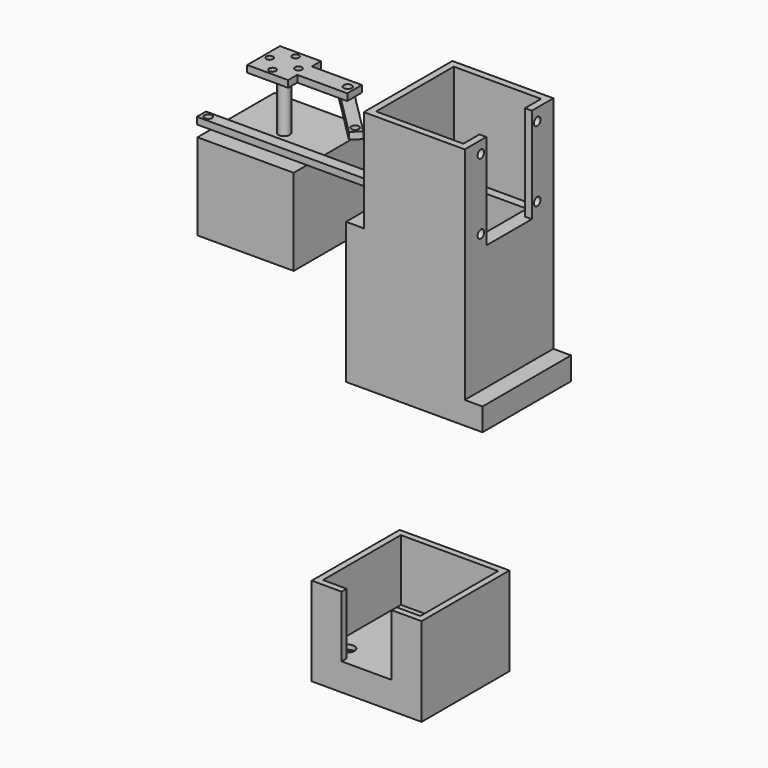
from build123d import *

# Parameters (mm, degrees)
CYLINDER011_R             = 1.8
CYLINDER011_DEPTH         = 10
BOX013_W                  = 8
BOX013_H                  = 22
BOX013_DEPTH              = 3
CYLINDER010_R             = 1.5
CYLINDER010_DEPTH         = 10
CYLINDER009_R             = 1.5
CYLINDER009_DEPTH         = 10
CYLINDER012_R             = 1.5
CYLINDER012_DEPTH         = 10
CYLINDER013_R             = 1.5
CYLINDER013_DEPTH         = 10
BOX012_W                  = 18
BOX012_H                  = 18
BOX012_DEPTH              = 3
FUSION005_PITCH_ANGLE     = 90
FUSION005_PLACEMENT_ANGLE = -90
CYLINDER015_R             = 1.7
CYLINDER015_DEPTH         = 10
CYLINDER014_R             = 1.7
CYLINDER014_DEPTH         = 10
BOX014_W                  = 30
BOX014_H                  = 5
BOX014_DEPTH              = 3
CUT015_ROLL_ANGLE         = 90
CUT015_PITCH_ANGLE        = 45
CUT015_PLACEMENT_ANGLE    = 1.4e-05
CYLINDER008_R             = 2.5
CYLINDER008_DEPTH         = 24
BOX011_W                  = 42.3
BOX011_H                  = 42.3
BOX011_DEPTH              = 38
FUSION004_PLACEMENT_ANGLE = 90
FUSION006_ROLL_ANGLE      = -90
FUSION006_PLACEMENT_ANGLE = 180
CYLINDER016_R             = 1.7
CYLINDER016_DEPTH         = 10
CYLINDER017_R             = 1.7
CYLINDER017_DEPTH         = 10
BOX020_W                  = 90
BOX020_H                  = 5
BOX020_DEPTH              = 3
CUT022_PLACEMENT_ANGLE    = 1.4e-05
CYLINDER025_R             = 3
CYLINDER025_DEPTH         = 10
CYLINDER024_R             = 3
CYLINDER024_DEPTH         = 10
CYLINDER023_R             = 3
CYLINDER023_DEPTH         = 10
CYLINDER022_R             = 3
CYLINDER022_DEPTH         = 10
CYLINDER021_R             = 1.8
CYLINDER021_DEPTH         = 20
CYLINDER020_R             = 1.8
CYLINDER020_DEPTH         = 20
CYLINDER019_R             = 1.8
CYLINDER019_DEPTH         = 20
CYLINDER018_R             = 1.8
CYLINDER018_DEPTH         = 20
BOX019_W                  = 22
BOX019_H                  = 27
BOX019_DEPTH              = 10
BOX016_W                  = 42.8
BOX016_H                  = 27
BOX016_DEPTH              = 42.8
BOX015_W                  = 48.3
BOX015_H                  = 39
BOX015_DEPTH              = 48.3
CUT018_PLACEMENT_ANGLE    = 90
CYLINDER026_R             = 1.4
CYLINDER026_DEPTH         = 10
BOX004_W                  = 32
BOX004_H                  = 35
BOX004_DEPTH              = 10
CYLINDER003_R             = 1.8
CYLINDER003_DEPTH         = 10
CYLINDER002_R             = 1.8
CYLINDER002_DEPTH         = 10
CYLINDER001_R             = 1.8
CYLINDER001_DEPTH         = 10
CYLINDER_R                = 1.8
CYLINDER_DEPTH            = 10
BOX002_W                  = 3
BOX002_H                  = 25
BOX002_DEPTH              = 42
BOX_W                     = 38.4
BOX_H                     = 42.7
BOX_DEPTH                 = 42
BOX001_W                  = 44.4
BOX001_H                  = 48.7
BOX001_DEPTH              = 45
BOX006_W                  = 36
BOX006_H                  = 35
BOX006_DEPTH              = 52
BOX005_W                  = 44.4
BOX005_H                  = 48.7
BOX005_DEPTH              = 52
CYLINDER007_R             = 2
CYLINDER007_DEPTH         = 15
CYLINDER006_R             = 2
CYLINDER006_DEPTH         = 15
CYLINDER005_R             = 2
CYLINDER005_DEPTH         = 15
CYLINDER004_R             = 2
CYLINDER004_DEPTH         = 15
BOX003_W                  = 60
BOX003_H                  = 48.7
BOX003_DEPTH              = 10
BOX007_W                  = 7.8
BOX007_H                  = 48.8
BOX007_DEPTH              = 52


with BuildPart() as cylinder011:
    # Cylinder011 → Cylinder011 (new body)
    with BuildSketch(Plane(origin=(5, 2, 0), x_dir=(1, 0, 0), z_dir=(0, 0, 1))):
        Circle(CYLINDER011_R)
    extrude(amount=CYLINDER011_DEPTH)


with BuildPart() as cut013:
    # Box013 → Box013 (new body)
    with BuildSketch(Plane(origin=(1, -1, 0), x_dir=(1, 0, 0), z_dir=(0, 0, 1))):
        with Locations((4, 11)):
            Rectangle(BOX013_W, BOX013_H)
    extrude(amount=BOX013_DEPTH)

    # Cut013: cut Cylinder011
    add(cylinder011.part, mode=Mode.SUBTRACT)


with BuildPart() as cylinder010:
    # Cylinder010 → Cylinder010 (new body)
    with BuildSketch(Plane(origin=(5, 23.65, 0), x_dir=(1, 0, 0), z_dir=(0, 0, 1))):
        Circle(CYLINDER010_R)
    extrude(amount=CYLINDER010_DEPTH)


with BuildPart() as cylinder009:
    # Cylinder009 → Cylinder009 (new body)
    with BuildSketch(Plane(origin=(-1.35, 30, 0), x_dir=(1, 0, 0), z_dir=(0, 0, 1))):
        Circle(CYLINDER009_R)
    extrude(amount=CYLINDER009_DEPTH)


with BuildPart() as cylinder012:
    # Cylinder012 → Cylinder012 (new body)
    with BuildSketch(Plane(origin=(11.35, 30, 0), x_dir=(1, 0, 0), z_dir=(0, 0, 1))):
        Circle(CYLINDER012_R)
    extrude(amount=CYLINDER012_DEPTH)


with BuildPart() as cylinder013:
    # Cylinder013 → Cylinder013 (new body)
    with BuildSketch(Plane(origin=(5, 36.35, 0), x_dir=(1, 0, 0), z_dir=(0, 0, 1))):
        Circle(CYLINDER013_R)
    extrude(amount=CYLINDER013_DEPTH)


with BuildPart() as obj1:
    # Box012 → Box012 (new body)
    with BuildSketch(Plane(origin=(-4, 21, 0), x_dir=(1, 0, 0), z_dir=(0, 0, 1))):
        with Locations((9, 9)):
            Rectangle(BOX012_W, BOX012_H)
    extrude(amount=BOX012_DEPTH)

    # Cut020: cut Cylinder013
    add(cylinder013.part, mode=Mode.SUBTRACT)

    # Cut012: cut Cylinder012
    add(cylinder012.part, mode=Mode.SUBTRACT)

    # Cut019: cut Cylinder009
    add(cylinder009.part, mode=Mode.SUBTRACT)

    # Cut014: cut Cylinder010
    add(cylinder010.part, mode=Mode.SUBTRACT)

    # Fusion005: union Cut013
    add(cut013.part)


with BuildPart() as obj1_1:
    # Fusion005 pitch: moved
    add(obj1.part.rotate(Axis((0, 0, 0), (0, 1, 0)), FUSION005_PITCH_ANGLE))


with BuildPart() as obj1_2:
    # Fusion005 placement: moved
    add(obj1_1.part.moved(Location((60.15, 35, -21.85))).rotate(Axis((60.15, 35, -21.85), (0, 0, 1)), FUSION005_PLACEMENT_ANGLE))


with BuildPart() as cylinder015:
    # Cylinder015 → Cylinder015 (new body)
    with BuildSketch(Plane(origin=(27, 2.5, 0), x_dir=(1, 0, 0), z_dir=(0, 0, 1))):
        Circle(CYLINDER015_R)
    extrude(amount=CYLINDER015_DEPTH)


with BuildPart() as cylinder014:
    # Cylinder014 → Cylinder014 (new body)
    with BuildSketch(Plane(origin=(3, 2.5, 0), x_dir=(1, 0, 0), z_dir=(0, 0, 1))):
        Circle(CYLINDER014_R)
    extrude(amount=CYLINDER014_DEPTH)


with BuildPart() as obj2:
    # Box014 → Box014 (new body)
    with BuildSketch(Plane.XY):
        with Locations((15, 2.5)):
            Rectangle(BOX014_W, BOX014_H)
    extrude(amount=BOX014_DEPTH)

    # Cut016: cut Cylinder014
    add(cylinder014.part, mode=Mode.SUBTRACT)

    # Cut015: cut Cylinder015
    add(cylinder015.part, mode=Mode.SUBTRACT)


with BuildPart() as obj2_1:
    # Cut015 roll: moved
    add(obj2.part.rotate(Axis((0, 0, 0), (1, 0, 0)), CUT015_ROLL_ANGLE))


with BuildPart() as obj2_2:
    # Cut015 pitch: moved
    add(obj2_1.part.rotate(Axis((0, 0, 0), (0, 1, 0)), CUT015_PITCH_ANGLE))


with BuildPart() as obj2_3:
    # Cut015 placement: moved
    add(obj2_2.part.moved(Location((41.4, 38.5, -9.5))).rotate(Axis((41.4, 38.5, -9.5), (0, 0, 1)), CUT015_PLACEMENT_ANGLE))


with BuildPart() as rotor001:
    # Cylinder008 → Cylinder008 (new body)
    with BuildSketch(Plane(origin=(21.15, 21.15, 38), x_dir=(1, 0, 0), z_dir=(0, 0, 1))):
        Circle(CYLINDER008_R)
    extrude(amount=CYLINDER008_DEPTH)


with BuildPart() as obj3:
    # Box011 → Box011 (new body)
    with BuildSketch(Plane.XY):
        with Locations((21.15, 21.15)):
            Rectangle(BOX011_W, BOX011_H)
    extrude(amount=BOX011_DEPTH)

    # Fusion004: union Rotor001
    add(rotor001.part)


with BuildPart() as obj3_1:
    # Fusion004 placement: moved
    add(obj3.part.moved(Location((69, 97, -48))).rotate(Axis((69, 97, -48), (1, 0, 0)), FUSION004_PLACEMENT_ANGLE))

    # Fusion006: union obj1, obj2
    add(obj1_2.part)
    add(obj2_3.part)


with BuildPart() as obj3_2:
    # Fusion006 roll: moved
    add(obj3_1.part.rotate(Axis((0, 0, 0), (1, 0, 0)), FUSION006_ROLL_ANGLE))


with BuildPart() as obj3_3:
    # Fusion006 placement: moved
    add(obj3_2.part.moved(Location((0, 43, 66))).rotate(Axis((0, 43, 66), (0, 0, 1)), FUSION006_PLACEMENT_ANGLE))


with BuildPart() as cylinder016:
    # Cylinder016 → Cylinder016 (new body)
    with BuildSketch(Plane(origin=(87, 2.5, 0), x_dir=(1, 0, 0), z_dir=(0, 0, 1))):
        Circle(CYLINDER016_R)
    extrude(amount=CYLINDER016_DEPTH)


with BuildPart() as cylinder017:
    # Cylinder017 → Cylinder017 (new body)
    with BuildSketch(Plane(origin=(3, 2.5, 0), x_dir=(1, 0, 0), z_dir=(0, 0, 1))):
        Circle(CYLINDER017_R)
    extrude(amount=CYLINDER017_DEPTH)


with BuildPart() as obj4:
    # Box020 → Box020 (new body)
    with BuildSketch(Plane.XY):
        with Locations((45, 2.5)):
            Rectangle(BOX020_W, BOX020_H)
    extrude(amount=BOX020_DEPTH)

    # Cut021: cut Cylinder017
    add(cylinder017.part, mode=Mode.SUBTRACT)

    # Cut022: cut Cylinder016
    add(cylinder016.part, mode=Mode.SUBTRACT)


with BuildPart() as obj4_1:
    # Cut022 placement: moved
    add(obj4.part.moved(Location((-88.6, 20, 31))).rotate(Axis((-88.6, 20, 31), (0, 0, 1)), CUT022_PLACEMENT_ANGLE))


with BuildPart() as cylinder025:
    # Cylinder025 → Cylinder025 (new body)
    with BuildSketch(Plane(origin=(43.45, -62.25, -97.5), x_dir=(1, 0, 0), z_dir=(0, 0, 1))):
        Circle(CYLINDER025_R)
    extrude(amount=CYLINDER025_DEPTH)


with BuildPart() as cylinder024:
    # Cylinder024 → Cylinder024 (new body)
    with BuildSketch(Plane(origin=(74.25, -62.25, -97.5), x_dir=(1, 0, 0), z_dir=(0, 0, 1))):
        Circle(CYLINDER024_R)
    extrude(amount=CYLINDER024_DEPTH)


with BuildPart() as cylinder023:
    # Cylinder023 → Cylinder023 (new body)
    with BuildSketch(Plane(origin=(74.25, -31.45, -97.5), x_dir=(1, 0, 0), z_dir=(0, 0, 1))):
        Circle(CYLINDER023_R)
    extrude(amount=CYLINDER023_DEPTH)


with BuildPart() as cylinder022:
    # Cylinder022 → Cylinder022 (new body)
    with BuildSketch(Plane(origin=(43.45, -31.45, -97.5), x_dir=(1, 0, 0), z_dir=(0, 0, 1))):
        Circle(CYLINDER022_R)
    extrude(amount=CYLINDER022_DEPTH)


with BuildPart() as cylinder021:
    # Cylinder021 → Cylinder021 (new body)
    with BuildSketch(Plane(origin=(43.45, -31.45, -110), x_dir=(1, 0, 0), z_dir=(0, 0, 1))):
        Circle(CYLINDER021_R)
    extrude(amount=CYLINDER021_DEPTH)


with BuildPart() as cylinder020:
    # Cylinder020 → Cylinder020 (new body)
    with BuildSketch(Plane(origin=(43.45, -62.25, -110), x_dir=(1, 0, 0), z_dir=(0, 0, 1))):
        Circle(CYLINDER020_R)
    extrude(amount=CYLINDER020_DEPTH)


with BuildPart() as cylinder019:
    # Cylinder019 → Cylinder019 (new body)
    with BuildSketch(Plane(origin=(74.25, -31.45, -110), x_dir=(1, 0, 0), z_dir=(0, 0, 1))):
        Circle(CYLINDER019_R)
    extrude(amount=CYLINDER019_DEPTH)


with BuildPart() as cylinder018:
    # Cylinder018 → Cylinder018 (new body)
    with BuildSketch(Plane(origin=(74.25, -62.25, -110), x_dir=(1, 0, 0), z_dir=(0, 0, 1))):
        Circle(CYLINDER018_R)
    extrude(amount=CYLINDER018_DEPTH)


with BuildPart() as cube004:
    # Box019 → Box019 (new body)
    with BuildSketch(Plane(origin=(47.85, 68.5, -75), x_dir=(1, 0, 0), z_dir=(0, 0, 1))):
        with Locations((11, 13.5)):
            Rectangle(BOX019_W, BOX019_H)
    extrude(amount=BOX019_DEPTH)


with BuildPart() as statictraynegative:
    # Box016 → Box016 (new body)
    with BuildSketch(Plane(origin=(93.75, 0, 2.75), x_dir=(1, 0, 0), z_dir=(0, 0, 1))):
        with Locations((21.4, 13.5)):
            Rectangle(BOX016_W, BOX016_H)
    extrude(amount=BOX016_DEPTH)


with BuildPart() as cut030:
    # Box015 → Box015 (new body)
    with BuildSketch(Plane(origin=(91, 0, 0), x_dir=(1, 0, 0), z_dir=(0, 0, 1))):
        with Locations((24.15, 19.5)):
            Rectangle(BOX015_W, BOX015_H)
    extrude(amount=BOX015_DEPTH)

    # Cut017: cut StaticTrayNegative
    add(statictraynegative.part, mode=Mode.SUBTRACT)


with BuildPart() as cut030_1:
    # Cut017 placement: moved
    add(cut030.part.moved(Location((-56.3, 68.5, -71))))

    # Cut018: cut Cube004
    add(cube004.part, mode=Mode.SUBTRACT)


with BuildPart() as cut030_2:
    # Cut018 placement: moved
    add(cut030_1.part.rotate(Axis((0, 0, 0), (-1, 0, 0)), CUT018_PLACEMENT_ANGLE))

    # Cut023: cut Cylinder018
    add(cylinder018.part, mode=Mode.SUBTRACT)

    # Cut024: cut Cylinder019
    add(cylinder019.part, mode=Mode.SUBTRACT)

    # Cut025: cut Cylinder020
    add(cylinder020.part, mode=Mode.SUBTRACT)

    # Cut026: cut Cylinder021
    add(cylinder021.part, mode=Mode.SUBTRACT)

    # Cut027: cut Cylinder022
    add(cylinder022.part, mode=Mode.SUBTRACT)

    # Cut028: cut Cylinder023
    add(cylinder023.part, mode=Mode.SUBTRACT)

    # Cut029: cut Cylinder024
    add(cylinder024.part, mode=Mode.SUBTRACT)

    # Cut030: cut Cylinder025
    add(cylinder025.part, mode=Mode.SUBTRACT)


with BuildPart() as cylinder026:
    # Cylinder026 → Cylinder026 (new body)
    with BuildSketch(Plane(origin=(-1.5, 22.5, 21), x_dir=(1, 0, 0), z_dir=(0, 0, 1))):
        Circle(CYLINDER026_R)
    extrude(amount=CYLINDER026_DEPTH)


with BuildPart() as cube001:
    # Box004 → Box004 (new body)
    with BuildSketch(Plane(origin=(3.2, 3.85, 0), x_dir=(1, 0, 0), z_dir=(0, 0, 1))):
        with Locations((16, 17.5)):
            Rectangle(BOX004_W, BOX004_H)
    extrude(amount=BOX004_DEPTH)


with BuildPart() as cylinder003:
    # Cylinder003 → Cylinder003 (new body)
    with BuildSketch(Plane(origin=(31.4, 36.85, 41.65), x_dir=(0, 0, -1), z_dir=(1, 0, 0))):
        Circle(CYLINDER003_R)
    extrude(amount=CYLINDER003_DEPTH)


with BuildPart() as cylinder002:
    # Cylinder002 → Cylinder002 (new body)
    with BuildSketch(Plane(origin=(31.4, 5.85, 41.65), x_dir=(0, 0, -1), z_dir=(1, 0, 0))):
        Circle(CYLINDER002_R)
    extrude(amount=CYLINDER002_DEPTH)


with BuildPart() as cylinder001:
    # Cylinder001 → Cylinder001 (new body)
    with BuildSketch(Plane(origin=(31.4, 36.85, 10.65), x_dir=(0, 0, -1), z_dir=(1, 0, 0))):
        Circle(CYLINDER001_R)
    extrude(amount=CYLINDER001_DEPTH)


with BuildPart() as cylinder:
    # Cylinder → Cylinder (new body)
    with BuildSketch(Plane(origin=(31.4, 5.85, 10.65), x_dir=(0, 0, -1), z_dir=(1, 0, 0))):
        Circle(CYLINDER_R)
    extrude(amount=CYLINDER_DEPTH)


with BuildPart() as trayrightcutout:
    # Box002 → Box002 (new body)
    with BuildSketch(Plane(origin=(38.4, 8.85, 0), x_dir=(1, 0, 0), z_dir=(0, 0, 1))):
        with Locations((1.5, 12.5)):
            Rectangle(BOX002_W, BOX002_H)
    extrude(amount=BOX002_DEPTH)


with BuildPart() as traynegative:
    # Box → Box (new body)
    with BuildSketch(Plane.XY):
        with Locations((19.2, 21.35)):
            Rectangle(BOX_W, BOX_H)
    extrude(amount=BOX_DEPTH)


with BuildPart() as cut010:
    # Box001 → Box001 (new body)
    with BuildSketch(Plane(origin=(-3, -3, -3), x_dir=(1, 0, 0), z_dir=(0, 0, 1))):
        with Locations((22.2, 24.35)):
            Rectangle(BOX001_W, BOX001_H)
    extrude(amount=BOX001_DEPTH)

    # Cut: cut TrayNegative
    add(traynegative.part, mode=Mode.SUBTRACT)

    # Cut001: cut TrayRightCutout
    add(trayrightcutout.part, mode=Mode.SUBTRACT)


with BuildPart() as cut010_1:
    # Cut001 placement: moved
    add(cut010.part.moved(Location((0, 0, 5))))

    # Cut002: cut Cylinder
    add(cylinder.part, mode=Mode.SUBTRACT)

    # Cut003: cut Cylinder001
    add(cylinder001.part, mode=Mode.SUBTRACT)

    # Cut004: cut Cylinder002
    add(cylinder002.part, mode=Mode.SUBTRACT)

    # Cut005: cut Cylinder003
    add(cylinder003.part, mode=Mode.SUBTRACT)

    # Cut010: cut Cube001
    add(cube001.part, mode=Mode.SUBTRACT)


with BuildPart() as cut010_2:
    # Cut010 placement: moved
    add(cut010_1.part.moved(Location((6.2, 0, 28))))


with BuildPart() as cube002:
    # Box006 → Box006 (new body)
    with BuildSketch(Plane(origin=(7.4, 3.85, -22), x_dir=(1, 0, 0), z_dir=(0, 0, 1))):
        with Locations((18, 17.5)):
            Rectangle(BOX006_W, BOX006_H)
    extrude(amount=BOX006_DEPTH)


with BuildPart() as cut011:
    # Box005 → Box005 (new body)
    with BuildSketch(Plane(origin=(3.2, -3, -22), x_dir=(1, 0, 0), z_dir=(0, 0, 1))):
        with Locations((22.2, 24.35)):
            Rectangle(BOX005_W, BOX005_H)
    extrude(amount=BOX005_DEPTH)

    # Cut011: cut Cube002
    add(cube002.part, mode=Mode.SUBTRACT)


with BuildPart() as cylinder007:
    # Cylinder007 → Cylinder007 (new body)
    with BuildSketch(Plane(origin=(35.4, 31.35, -35), x_dir=(1, 0, 0), z_dir=(0, 0, 1))):
        Circle(CYLINDER007_R)
    extrude(amount=CYLINDER007_DEPTH)


with BuildPart() as cylinder006:
    # Cylinder006 → Cylinder006 (new body)
    with BuildSketch(Plane(origin=(15.4, 31.35, -35), x_dir=(1, 0, 0), z_dir=(0, 0, 1))):
        Circle(CYLINDER006_R)
    extrude(amount=CYLINDER006_DEPTH)


with BuildPart() as cylinder005:
    # Cylinder005 → Cylinder005 (new body)
    with BuildSketch(Plane(origin=(35.4, 11.35, -35), x_dir=(1, 0, 0), z_dir=(0, 0, 1))):
        Circle(CYLINDER005_R)
    extrude(amount=CYLINDER005_DEPTH)


with BuildPart() as cylinder004:
    # Cylinder004 → Cylinder004 (new body)
    with BuildSketch(Plane(origin=(15.4, 11.35, -35), x_dir=(1, 0, 0), z_dir=(0, 0, 1))):
        Circle(CYLINDER004_R)
    extrude(amount=CYLINDER004_DEPTH)


with BuildPart() as fusion:
    # Box003 → Box003 (new body)
    with BuildSketch(Plane(origin=(-4.6, -3, -32), x_dir=(1, 0, 0), z_dir=(0, 0, 1))):
        with Locations((30, 24.35)):
            Rectangle(BOX003_W, BOX003_H)
    extrude(amount=BOX003_DEPTH)

    # Cut006: cut Cylinder004
    add(cylinder004.part, mode=Mode.SUBTRACT)

    # Cut007: cut Cylinder005
    add(cylinder005.part, mode=Mode.SUBTRACT)

    # Cut008: cut Cylinder006
    add(cylinder006.part, mode=Mode.SUBTRACT)

    # Cut009: cut Cylinder007
    add(cylinder007.part, mode=Mode.SUBTRACT)

    # Fusion: union Cut010, Cut011
    add(cut010_2.part)
    add(cut011.part)


with BuildPart() as cut031:
    # Box007 → Box007 (new body)
    with BuildSketch(Plane(origin=(-4.6, -3, -22), x_dir=(1, 0, 0), z_dir=(0, 0, 1))):
        with Locations((3.9, 24.4)):
            Rectangle(BOX007_W, BOX007_H)
    extrude(amount=BOX007_DEPTH)

    # Fusion001: union Fusion
    add(fusion.part)

    # Cut031: cut Cylinder026
    add(cylinder026.part, mode=Mode.SUBTRACT)


solid = Compound([obj3_3.part, obj4_1.part, cut030_2.part, cut031.part])
